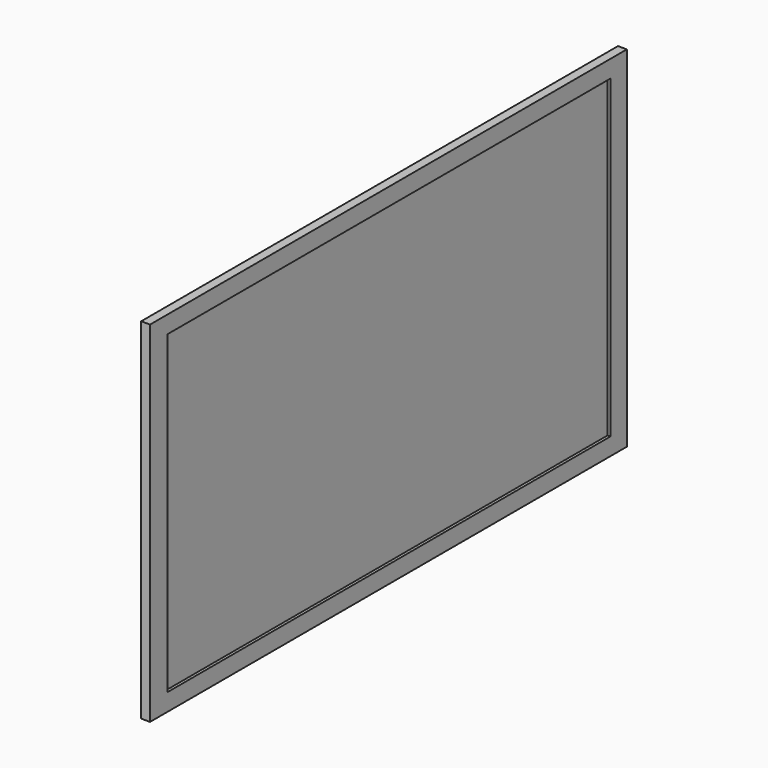
from build123d import *

# Parameters (mm, degrees)
F0_W     = 624.14
F0_H     = 366.36
F1_DEPTH = 9.3
F2_W     = 580
F2_H     = 330
F3_DEPTH = 3
F4_W     = 300
F4_H     = 180
F5_DEPTH = 25.4
F6_R     = 15
F7_DEPTH = 15


with BuildPart() as f1:
    # F0 (on Right) → F1 (new body)
    with BuildSketch(Plane.YZ):
        with Locations((-0.668731, 0)):
            Rectangle(F0_W, F0_H)
    extrude(amount=F1_DEPTH)

    # F2 (on face) → F3 (cut)
    with BuildSketch(Plane.YZ.offset(9.3)):
        Rectangle(F2_W, F2_H)
    extrude(amount=-F3_DEPTH, mode=Mode.SUBTRACT)

    # F4 (on Right) → F5 (join)
    with BuildSketch(Plane.YZ):
        Rectangle(F4_W, F4_H)
    extrude(amount=-F5_DEPTH)

    # F6 (on face) → F7 (cut)
    with BuildSketch(Plane(origin=(-25.4, 0, 0), x_dir=(0, -1, 0), z_dir=(-1, 0, 0))):
        Circle(F6_R)
    extrude(amount=-F7_DEPTH, mode=Mode.SUBTRACT)


solid = f1.part
